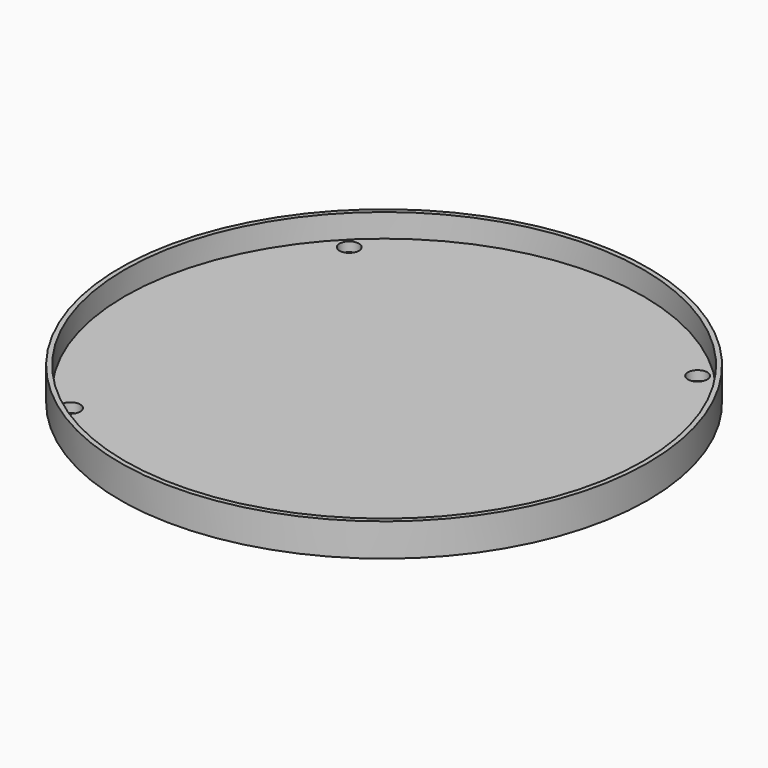
from build123d import *

# Parameters (mm, degrees)
F0_R     = 112.5
F1_DEPTH = 4
F2_R     = 4.15
F3_DEPTH = 25
F4_R     = 112.5
F4_R_2   = 110.5
F5_DEPTH = 10


with BuildPart() as f1:
    # F0 (on Top) → F1 (new body)
    with BuildSketch(Plane.XY):
        Circle(F0_R)
    extrude(amount=F1_DEPTH)

    # F2 (on face) → F3 (cut)
    with BuildSketch(Plane.XY.offset(4)):
        with Locations((-74.2462, 74.2462)):
            Circle(F2_R)
        with Locations((-74.2462, -74.2462)):
            Circle(F2_R)
        with Locations((74.2462, -74.2462)):
            Circle(F2_R)
        with Locations((74.2462, 74.2462)):
            Circle(F2_R)
    extrude(amount=-F3_DEPTH, mode=Mode.SUBTRACT)

    # F4 (on face) → F5 (join)
    with BuildSketch(Plane.XY.offset(4)):
        Circle(F4_R)
        Circle(F4_R_2, mode=Mode.SUBTRACT)
    extrude(amount=F5_DEPTH)


solid = f1.part
